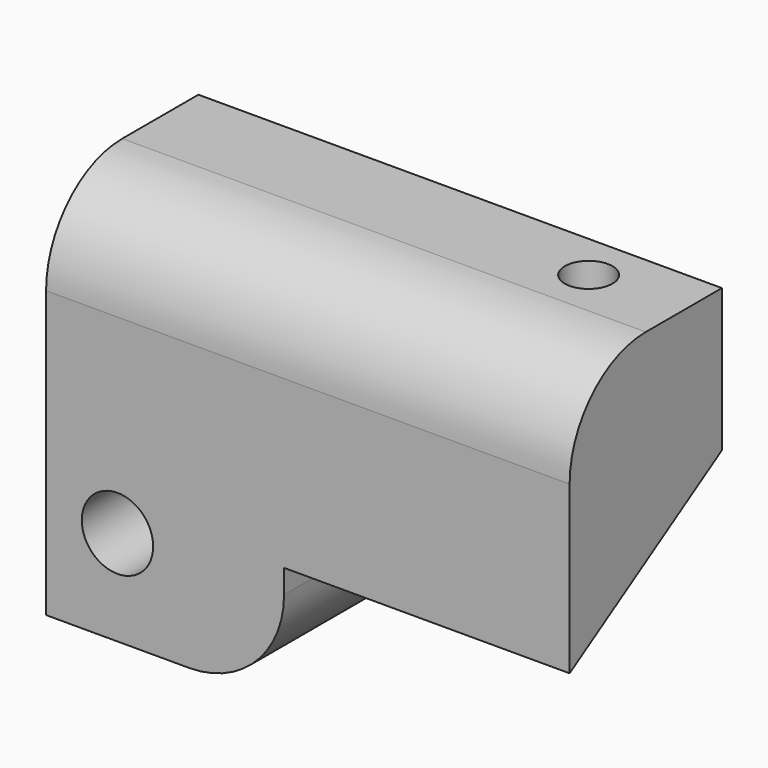
from build123d import *

# Parameters (mm, degrees)
F1_DEPTH = 139.7
F0_W     = 50.8
F0_H     = 24.8791221529
F2_DEPTH = 63.5
F3_R     = 25.4
F5_D     = 19.05
F6_D     = 31.75
F6_DEPTH = 25.4
F6_TIP   = 9.5386623271
F8_D     = 12.7


with BuildPart() as f1:
    # F0 (on Right) → F1 (new body)
    with BuildSketch(Plane.YZ):
        with BuildLine():
            Line((0, 63.5), (0, 31.75))
            Line((0, 31.75), (50.8, 63.5))
            Line((50.8, 63.5), (50.8, 101.6))
            Line((50.8, 101.6), (25.4, 101.6))
            ThreePointArc((25.4, 101.6), (7.4394877579, 94.1605122421), (0, 76.2))
            Line((0, 76.2), (0, 63.5))
        make_face()
    extrude(amount=F1_DEPTH)

    # F0 (on Right) → F2 (join)
    with BuildSketch(Plane.YZ):
        Polygon((0, 31.75), (0, 24.8791221529), (50.8, 24.8791221529), (50.8, 63.5), align=None)
        with Locations((25.4, 12.4395610765)):
            Rectangle(F0_W, F0_H)
    extrude(amount=F2_DEPTH)

    # F3
    f3_edges = [f1.edges().sort_by_distance(p)[0] for p in [
        (63.5, 25.4, 0),
    ]]
    fillet(f3_edges, radius=F3_R)

    # F5 (through all)
    with Locations(Plane(origin=(0, 50.8, 0), x_dir=(-1, 0, 0), z_dir=(0, 1, 0))):
        with Locations((-19.05, 25.4)):
            Hole(F5_D / 2)

    # F6
    with Locations(Plane(origin=(0, 50.8, 0), x_dir=(-1, 0, 0), z_dir=(0, 1, 0))):
        with Locations((-19.05, 25.4)):
            Hole(F6_D / 2, depth=F6_DEPTH)
            with Locations((0, 0, -(F6_DEPTH + F6_TIP / 2))):  # 118° drill point
                Cone(0, F6_D / 2, F6_TIP, mode=Mode.SUBTRACT)

    # F8 (through all)
    with Locations(Plane.XY.offset(101.6)):
        with Locations((114.3, 38.1)):
            Hole(F8_D / 2)


solid = f1.part
